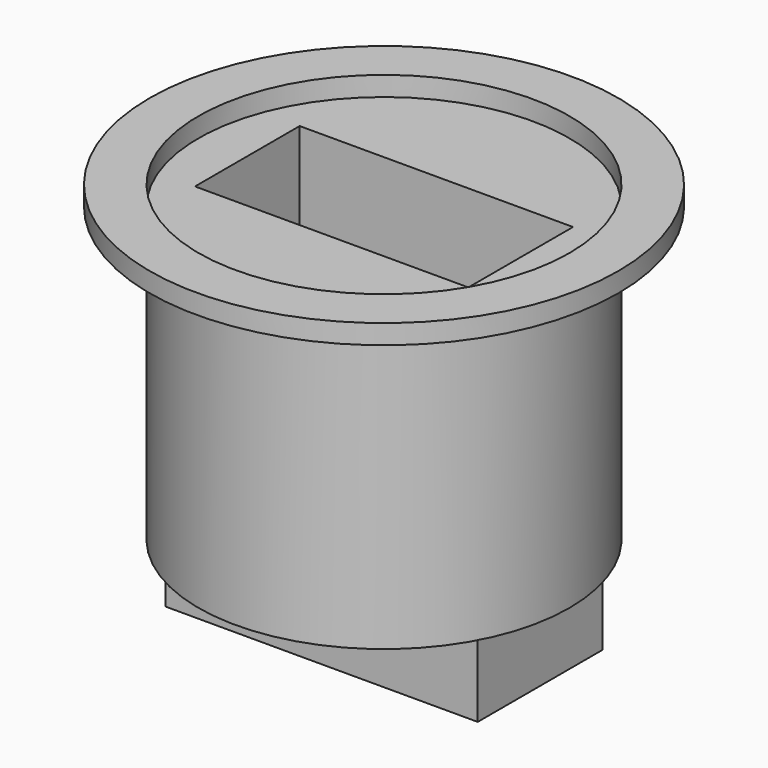
from build123d import *

# Parameters (mm, degrees)
F0_W     = 16
F0_H     = 8
F0_W_2   = 14
F0_H_2   = 6.7
F1_DEPTH = 19
F0_R     = 12
F0_R_2   = 9.5
F2_DEPTH = 1
F3_DEPTH = 15


with BuildPart() as f1:
    # F0 (on Top) → F1 (new body)
    with BuildSketch(Plane.XY):
        Rectangle(F0_W, F0_H)
        Rectangle(F0_W_2, F0_H_2, mode=Mode.SUBTRACT)
    extrude(amount=-F1_DEPTH)



with BuildPart() as f2:
    # F0 (on Top) → F2 (new body)
    with BuildSketch(Plane.XY):
        Circle(F0_R)
        Circle(F0_R_2, mode=Mode.SUBTRACT)
    extrude(amount=F2_DEPTH)


with BuildPart() as f1_1:
    add(f1.part)

    add(f2.part)  # F3 merges F2
    # F0 (on Top) → F3 (join)
    with BuildSketch(Plane.XY):
        Circle(F0_R_2)
        Rectangle(F0_W, F0_H, mode=Mode.SUBTRACT)
    extrude(amount=-F3_DEPTH)


solid = f1_1.part
